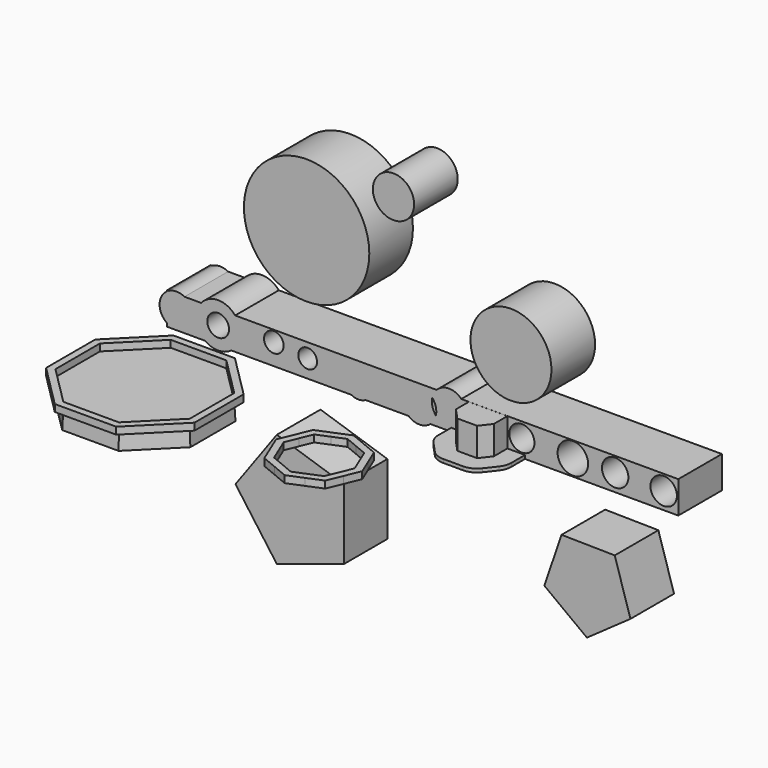
from build123d import *

# Parameters (mm, degrees)
F0_R     = 17.8139800412
F1_DEPTH = 15.494
F0_R_2   = 11.5051487887
F0_R_3   = 5.8619659801
F0_R_4   = 3.0887061563
F0_R_5   = 2.7872555457
F0_R_6   = 2.6641177262
F0_R_7   = 3.5752749696
F0_R_8   = 4.3340936332
F0_R_9   = 3.7486076205
F0_R_10  = 3.7558182647
F3_DEPTH = 9.1
F4_DEPTH = 1
F6_DEPTH = 2
F8_DEPTH = 5
F8_TAPER = -3
F9_T     = -1


with BuildPart() as f1:
    # F0 (on Front) → F1 (new body)
    with BuildSketch(Plane.XZ):
        with Locations((-32.0643559098, 33.3498455584)):
            Circle(F0_R)
    extrude(amount=F1_DEPTH)


with BuildPart() as f1b:
    # F0 (on Front) → F1, piece 2 (new body)
    with BuildSketch(Plane.XZ):
        with Locations((26.0001858672, 21.1323804719)):
            Circle(F0_R_2)
    extrude(amount=F1_DEPTH)


with BuildPart() as f1c:
    # F0 (on Front) → F1, piece 3 (new body)
    with BuildSketch(Plane.XZ):
        Polygon((-21.4965865016, -32.4069848968), (-21.4965865016, -26.6931748016), (-40.5161358874, -20.5133485927), (-52.2708638586, -36.6923436522), (-40.5161358874, -52.8713387118), (-21.4965865016, -46.6915125029), (-21.4965865016, -40.9777024077), align=None)
    extrude(amount=F1_DEPTH)


with BuildPart() as f1d:
    # F0 (on Front) → F1, piece 4 (new body)
    with BuildSketch(Plane.XZ):
        with Locations((-7.3773595504, 49.7891530395)):
            Circle(F0_R_3)
    extrude(amount=F1_DEPTH)


with BuildPart() as f1e:
    # F0 (on Front) → F1, piece 5 (new body)
    with BuildSketch(Plane.XZ):
        Polygon((47.5753079159, -42.618838899), (59.94121926, -33.9183529688), (55.4878421774, -19.4690743935), (40.3695924316, -19.2394150511), (35.4793773209, -33.5467563471), align=None)
    extrude(amount=F1_DEPTH)


with BuildPart() as f1f:
    # F0 (on Front) → F1, piece 6 (new body)
    with BuildSketch(Plane.XZ):
        with BuildLine():
            Line((-71.2875978137, 5.4669422098), (-71.7210769653, 5.4669422098))
            Line((-71.7210769653, 5.4669422098), (-71.7210769653, 5.2054185065))
            ThreePointArc((-71.7210769653, 5.2054185065), (-71.5077857348, 5.341896038), (-71.2875978137, 5.4669422098))
        make_face()
        with BuildLine():
            ThreePointArc((-66.7660131072, 5.4669422098), (-69.0268054605, 6.032338058), (-71.2875978137, 5.4669422098))
            Line((-71.2875978137, 5.4669422098), (-66.7660131072, 5.4669422098))
        make_face()
        with BuildLine():
            Line((-66.7660131072, 5.4669422098), (-71.2875978137, 5.4669422098))
            ThreePointArc((-71.2875978137, 5.4669422098), (-71.5077857348, 5.341896038), (-71.7210769653, 5.2054185065))
            Line((-71.7210769653, 5.2054185065), (-71.7210769653, -2.7461446001))
            ThreePointArc((-71.7210769653, -2.7461446001), (-66.7766768898, -3.0133406943), (-64.2241043557, 1.2296369532))
            ThreePointArc((-64.2241043557, 1.2296369532), (-64.9083198265, 3.700267234), (-66.7660131072, 5.4669422098))
        make_face()
        with BuildLine():
            Line((-71.7210769653, -2.7461446001), (-71.7210769653, 5.2054185065))
            ThreePointArc((-71.7210769653, 5.2054185065), (-73.8295065652, 1.2296369532), (-71.7210769653, -2.7461446001))
        make_face()
        with BuildLine():
            Line((-62.0222794174, 5.4669422098), (-66.7660131072, 5.4669422098))
            ThreePointArc((-66.7660131072, 5.4669422098), (-64.9083198265, 3.700267234), (-64.2241043557, 1.2296369532))
            ThreePointArc((-64.2241043557, 1.2296369532), (-66.7766768898, -3.0133406943), (-71.7210769653, -2.7461446001))
            Line((-71.7210769653, -2.7461446001), (-71.7210769653, -3.6446282174))
            Line((-71.7210769653, -3.6446282174), (-60.9164853511, -3.6446282174))
            ThreePointArc((-60.9164853511, -3.6446282174), (-63.4419095605, 0.6717680934), (-62.0222794174, 5.4669422098))
        make_face()
        with BuildLine():
            ThreePointArc((-52.3668868185, 5.4669422098), (-57.194583118, 7.7231186661), (-62.0222794174, 5.4669422098))
            Line((-62.0222794174, 5.4669422098), (-52.3668868185, 5.4669422098))
        make_face()
        with BuildLine():
            Line((-52.3668868185, 5.4669422098), (-62.0222794174, 5.4669422098))
            ThreePointArc((-62.0222794174, 5.4669422098), (-63.4419095605, 0.6717680934), (-60.9164853511, -3.6446282174))
            Line((-60.9164853511, -3.6446282174), (-53.4726808848, -3.6446282174))
            ThreePointArc((-53.4726808848, -3.6446282174), (-51.5809176909, -1.4144611563), (-50.9014175986, 1.4299531467))
            ThreePointArc((-50.9014175986, 1.4299531467), (-51.2791193093, 3.5773283311), (-52.3668868185, 5.4669422098))
        make_face()
        with Locations((-57.194583118, 1.4299531467)):
            Circle(F0_R_4, mode=Mode.SUBTRACT)
        with BuildLine():
            Line((4.8944315217, 5.4669422098), (-52.3668868185, 5.4669422098))
            ThreePointArc((-52.3668868185, 5.4669422098), (-51.2791193093, 3.5773283311), (-50.9014175986, 1.4299531467))
            ThreePointArc((-50.9014175986, 1.4299531467), (-51.5809176909, -1.4144611563), (-53.4726808848, -3.6446282174))
            Line((-53.4726808848, -3.6446282174), (-19.3505987984, -3.6446282174))
            ThreePointArc((-19.3505987984, -3.6446282174), (-19.4434185248, 3.5915665557), (-13.1607614458, 0))
            ThreePointArc((-13.1607614458, 0), (-13.737107418, -2.1147445511), (-15.3067491489, -3.6446282174))
            Line((-15.3067491489, -3.6446282174), (-3.1048294077, -3.6446282174))
            ThreePointArc((-3.1048294077, -3.6446282174), (-3.3863899314, 3.3846186974), (3.6430033287, 3.1067357855))
            ThreePointArc((3.6430033287, 3.1067357855), (4.1031027455, 4.374651181), (4.8944315217, 5.4669422098))
        make_face()
        with Locations((-41.3732565939, 2.3560577538)):
            Circle(F0_R_5, mode=Mode.SUBTRACT)
        with Locations((-31.7674353719, 1.4215917327)):
            Circle(F0_R_6, mode=Mode.SUBTRACT)
        with BuildLine():
            Line((-53.4726808848, -3.6446282174), (-60.9164853511, -3.6446282174))
            ThreePointArc((-60.9164853511, -3.6446282174), (-57.194583118, -4.8632123727), (-53.4726808848, -3.6446282174))
        make_face()
        with BuildLine():
            ThreePointArc((11.8863267549, 5.4669422098), (8.3903791383, 6.9540981905), (4.8944315217, 5.4669422098))
            Line((4.8944315217, 5.4669422098), (11.8863267549, 5.4669422098))
        make_face()
        with BuildLine():
            Line((11.8863267549, 5.4669422098), (4.8944315217, 5.4669422098))
            ThreePointArc((4.8944315217, 5.4669422098), (4.1031027455, 4.374651181), (3.6430033287, 3.1067357855))
            ThreePointArc((3.6430033287, 3.1067357855), (4.4925130813, 1.6554777885), (4.7878262807, 0))
            ThreePointArc((4.7878262807, 0), (4.7601132197, -0.5143954019), (4.6772948562, -1.0228359214))
            ThreePointArc((4.6772948562, -1.0228359214), (10.0531913375, -2.4574102008), (13.2430250061, 2.1014523227))
            ThreePointArc((13.2430250061, 2.1014523227), (12.8910883976, 3.915780871), (11.8863267549, 5.4669422098))
        make_face()
        with BuildLine():
            Line((73.5433921218, 5.4669422098), (11.8863267549, 5.4669422098))
            ThreePointArc((11.8863267549, 5.4669422098), (12.8910883976, 3.915780871), (13.2430250061, 2.1014523227))
            ThreePointArc((13.2430250061, 2.1014523227), (10.0531913375, -2.4574102008), (4.6772948562, -1.0228359214))
            ThreePointArc((4.6772948562, -1.0228359214), (4.1059485172, -2.4626139098), (3.1048294077, -3.6446282174))
            Line((3.1048294077, -3.6446282174), (73.5433921218, -3.6446282174))
            Line((73.5433921218, -3.6446282174), (73.5433921218, 5.4669422098))
        make_face()
        with Locations((29.1037913412, 1.2453256641)):
            Circle(F0_R_7, mode=Mode.SUBTRACT)
        with Locations((43.5876064003, 0.941987324)):
            Circle(F0_R_8, mode=Mode.SUBTRACT)
        with Locations((55.6066073477, 1.2551748659)):
            Circle(F0_R_9, mode=Mode.SUBTRACT)
        with Locations((69.3883225322, 1.1593680829)):
            Circle(F0_R_10, mode=Mode.SUBTRACT)
        with BuildLine():
            ThreePointArc((4.6772948562, -1.0228359214), (3.683130806, 0.9224760478), (3.6430033287, 3.1067357855))
            ThreePointArc((3.6430033287, 3.1067357855), (-3.3863899314, 3.3846186974), (-3.1048294077, -3.6446282174))
            Line((-3.1048294077, -3.6446282174), (3.1048294077, -3.6446282174))
            ThreePointArc((3.1048294077, -3.6446282174), (4.1059485172, -2.4626139098), (4.6772948562, -1.0228359214))
        make_face()
        with BuildLine():
            ThreePointArc((-13.1607614458, 0), (-19.4434185248, 3.5915665557), (-19.3505987984, -3.6446282174))
            Line((-19.3505987984, -3.6446282174), (-15.3067491489, -3.6446282174))
            ThreePointArc((-15.3067491489, -3.6446282174), (-13.737107418, -2.1147445511), (-13.1607614458, 0))
        make_face()
        with BuildLine():
            Line((-15.3067491489, -3.6446282174), (-19.3505987984, -3.6446282174))
            ThreePointArc((-19.3505987984, -3.6446282174), (-17.3286739737, -4.1679125279), (-15.3067491489, -3.6446282174))
        make_face()
        with BuildLine():
            Line((3.1048294077, -3.6446282174), (-3.1048294077, -3.6446282174))
            ThreePointArc((-3.1048294077, -3.6446282174), (0, -4.7878262807), (3.1048294077, -3.6446282174))
        make_face()
    extrude(amount=F1_DEPTH)

    # F2 (on face) → F3 (join)
    with BuildSketch(Plane(origin=(0, 0, -3.6446282174), x_dir=(1, 0, 0), z_dir=(0, 0, -1))):
        Polygon((14.038509801, 20.099441715), (14.038509801, 15.494), (24.9944411963, 15.494), (24.9944411963, 20.3399387295), (22.6594273512, 23.3316746354), (17.0342370776, 23.3316746354), align=None)
    extrude(amount=-F3_DEPTH)

    # F2 (on face) → F4 (join)
    with BuildSketch(Plane(origin=(0, 0, -3.6446282174), x_dir=(1, 0, 0), z_dir=(0, 0, -1))):
        with BuildLine():
            Line((9.038509801, 20.099441715), (9.038509801, 15.494))
            Line((9.038509801, 15.494), (14.038509801, 15.494))
            Line((14.038509801, 15.494), (14.038509801, 20.099441715))
            Line((14.038509801, 20.099441715), (17.0342370776, 23.3316746354))
            Line((17.0342370776, 23.3316746354), (22.6594273512, 23.3316746354))
            Line((22.6594273512, 23.3316746354), (24.9944411963, 20.3399387295))
            Line((24.9944411963, 20.3399387295), (24.9944411963, 15.494))
            Line((24.9944411963, 15.494), (29.9944411963, 15.494))
            Line((29.9944411963, 15.494), (29.9944411963, 20.3399387295))
            ThreePointArc((29.9944411963, 20.3399387295), (29.7224372376, 21.9666081592), (28.9360198229, 23.4162933791))
            Line((28.9360198229, 23.4162933791), (26.6010059778, 26.408029285))
            ThreePointArc((26.6010059778, 26.408029285), (24.852396429, 27.8251016821), (22.6594273512, 28.3316746354))
            Line((22.6594273512, 28.3316746354), (17.0342370776, 28.3316746354))
            ThreePointArc((17.0342370776, 28.3316746354), (15.0335014878, 27.9139292224), (13.3670851442, 26.7304974754))
            Line((13.3670851442, 26.7304974754), (10.3713578676, 23.4982645549))
            ThreePointArc((10.3713578676, 23.4982645549), (9.3836328066, 21.9248513036), (9.038509801, 20.099441715))
        make_face()
    extrude(amount=-F4_DEPTH)


with BuildPart() as f6:
    # F5 (on Top) → F6 (new body)
    with BuildSketch(Plane.XY):
        Polygon((12.2342839544, -51.1133961294), (10.4426145507, -46.7879235559), (8.6509451471, -42.4624509823), (4.3254725735, -40.6707815787), (0, -38.8791121751), (-4.3254725735, -40.6707815787), (-8.6509451471, -42.4624509823), (-10.4426145507, -46.7879235559), (-12.2342839544, -51.1133961294), (-10.4426145507, -55.438868703), (-8.6509451471, -59.7643412765), (-4.3254725735, -61.5560106802), (0, -63.3476800838), (4.3254725735, -61.5560106802), (8.6509451471, -59.7643412765), (10.4426145507, -55.438868703), align=None)
        Polygon((0, -41.0438969928), (3.5601055613, -42.5185409998), (7.1202111227, -43.9931850067), (8.5948551297, -47.5532905681), (10.0694991366, -51.1133961294), (8.5948551297, -54.6735016908), (7.1202111227, -58.2336072521), (3.5601055613, -59.7082512591), (0, -61.1828952661), (-3.5601055613, -59.7082512591), (-7.1202111227, -58.2336072521), (-8.5948551297, -54.6735016908), (-10.0694991366, -51.1133961294), (-8.5948551297, -47.5532905681), (-7.1202111227, -43.9931850067), (-3.5601055613, -42.5185409998), align=None, mode=Mode.SUBTRACT)
    extrude(amount=F6_DEPTH)


with BuildPart() as f6b:
    # F5 (on Top) → F6, piece 2 (new body)
    with BuildSketch(Plane.XY):
        Polygon((-43.7428559218, -68.5087683652), (-31.3964133109, -56.1623257543), (-31.3964133109, -38.701819167), (-43.7428559218, -26.3553765561), (-61.2033625092, -26.3553765561), (-73.5498051201, -38.701819167), (-73.5498051201, -56.1623257543), (-61.2033625092, -68.5087683652), align=None)
        Polygon((-60.3749344297, -66.5087660603), (-71.5498028151, -55.3338976749), (-71.5498028151, -39.5302472464), (-60.3749344297, -28.355378861), (-44.5712840013, -28.355378861), (-33.3964156159, -39.5302472464), (-33.3964156159, -55.3338976749), (-44.5712840013, -66.5087660603), align=None, mode=Mode.SUBTRACT)
    extrude(amount=F6_DEPTH)


with BuildPart() as f8:
    # F7 (on face) → F8 (new body)
    with BuildSketch(Plane(origin=(0, 0, 0), x_dir=(1, 0, 0), z_dir=(0, 0, -1))):
        Polygon((-60.3749344297, 66.5087660603), (-71.5498028151, 55.3338976749), (-71.5498028151, 39.5302472464), (-60.3749344297, 28.355378861), (-44.5712840013, 28.355378861), (-33.3964156159, 39.5302472464), (-33.3964156159, 55.3338976749), (-44.5712840013, 66.5087660603), align=None)
    extrude(amount=F8_DEPTH, taper=F8_TAPER)

    # F9
    f9_openings = [f8.faces().sort_by_distance(p)[0] for p in [
        (-52.473109, -47.432072, -5),
    ]]
    offset(amount=F9_T, openings=f9_openings)


solid = Compound([f1.part, f1b.part, f1c.part, f1d.part, f1e.part, f1f.part, f6.part, f6b.part, f8.part])
